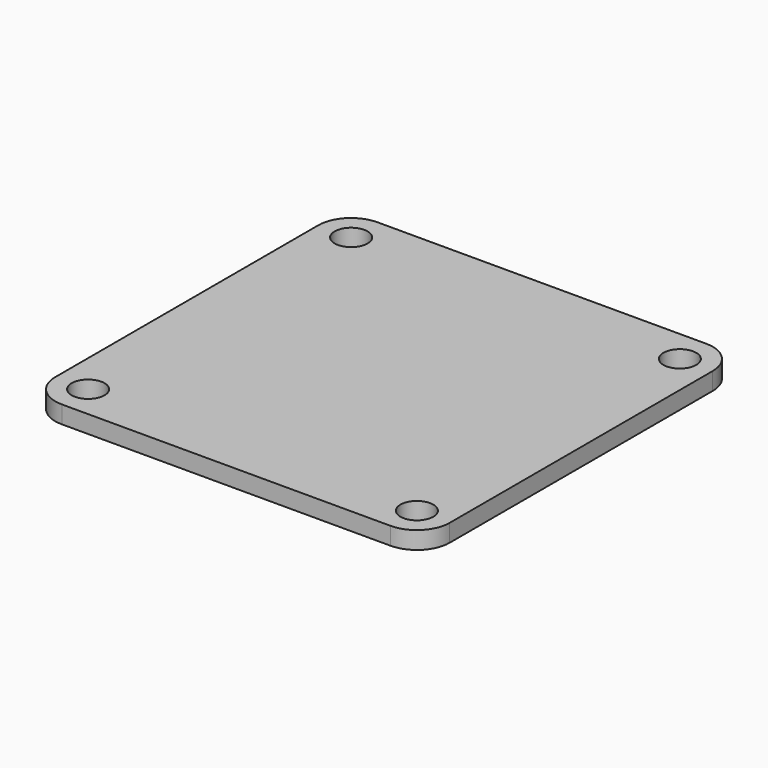
from build123d import *

# Parameters (mm, degrees)
F0_W     = 36
F0_H     = 36
F0_R     = 1.5
F1_DEPTH = 1.6
F2_R     = 3


with BuildPart() as f1:
    # F0 (on Top) → F1 (new body)
    with BuildSketch(Plane.XY):
        Rectangle(F0_W, F0_H)
        with Locations((-15, -15)):
            Circle(F0_R, mode=Mode.SUBTRACT)
        with Locations((15, -15)):
            Circle(F0_R, mode=Mode.SUBTRACT)
        with Locations((-15, 15)):
            Circle(F0_R, mode=Mode.SUBTRACT)
        with Locations((15, 15)):
            Circle(F0_R, mode=Mode.SUBTRACT)
    extrude(amount=F1_DEPTH)

    # F2
    f2_edges = [f1.edges().sort_by_distance(p)[0] for p in [
        (-18, 18, 0.8),
        (18, 18, 0.8),
        (18, -18, 0.8),
        (-18, -18, 0.8),
    ]]
    fillet(f2_edges, radius=F2_R)


solid = f1.part
